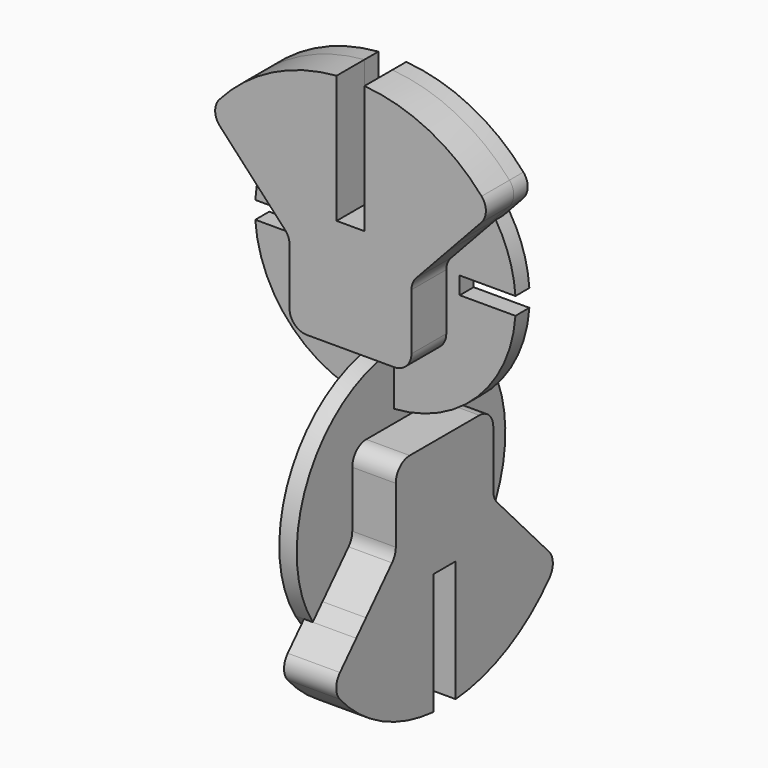
from build123d import *

# Parameters (mm, degrees)
F1_DEPTH = 3.81
F2_DEPTH = 3.175
F3_DEPTH = 1.27
F5_DEPTH = 1.27
F6_DEPTH = 0.635
F8_DEPTH = 3.81
F9_DEPTH = 0.635


with BuildPart() as f1:
    # F0 (on Front) → F1 (new body)
    with BuildSketch(Plane.XZ):
        with BuildLine():
            ThreePointArc((-1.016, 8.192238), (-4.570978, 6.87395), (-7.161671, 4.105544))
            Line((-7.161671, 4.105544), (-4.784743, 1.548093))
            ThreePointArc((-4.784743, 1.548093), (-4.532983, 1.147974), (-4.445, 0.6835))
            Line((-4.445, 0.6835), (-4.445, -3.42361))
            ThreePointArc((-4.445, -3.42361), (-4.073026, -4.321636), (-3.175, -4.69361))
            Line((-3.175, -4.69361), (3.175, -4.69361))
            ThreePointArc((3.175, -4.69361), (4.073026, -4.321636), (4.445, -3.42361))
            Line((4.445, -3.42361), (4.445, 0.6835))
            ThreePointArc((4.445, 0.6835), (4.532983, 1.147974), (4.784743, 1.548093))
            Line((4.784743, 1.548093), (7.161671, 4.105544))
            ThreePointArc((7.161671, 4.105544), (4.570978, 6.87395), (1.016, 8.192238))
            Line((1.016, 8.192238), (1.016, 3.336906))
            Line((1.016, 3.336906), (-1.016, 3.336906))
            Line((-1.016, 3.336906), (-1.016, 8.192238))
        make_face()
        with BuildLine():
            Line((7.161671, 4.105544), (8.051177, 5.062607))
            ThreePointArc((8.051177, 5.062607), (5.037785, 8.066731), (1.016, 9.456171))
            Line((1.016, 9.456171), (1.016, 8.192238))
            ThreePointArc((1.016, 8.192238), (4.570978, 6.87395), (7.161671, 4.105544))
        make_face()
        with BuildLine():
            ThreePointArc((1.016, 9.456171), (5.037785, 8.066731), (8.051177, 5.062607))
            Line((8.051177, 5.062607), (9.53491, 6.659027))
            ThreePointArc((9.53491, 6.659027), (9.874506, 7.504343), (9.560725, 8.359577))
            ThreePointArc((9.560725, 8.359577), (5.708649, 11.344661), (1.016, 12.659295))
            Line((1.016, 12.659295), (1.016, 9.456171))
        make_face()
        with BuildLine():
            ThreePointArc((-1.016, 9.456171), (-5.037785, 8.066731), (-8.051177, 5.062607))
            Line((-8.051177, 5.062607), (-7.161671, 4.105544))
            ThreePointArc((-7.161671, 4.105544), (-4.570978, 6.87395), (-1.016, 8.192238))
            Line((-1.016, 8.192238), (-1.016, 9.456171))
        make_face()
        with BuildLine():
            Line((-9.53491, 6.659027), (-8.051177, 5.062607))
            ThreePointArc((-8.051177, 5.062607), (-5.037785, 8.066731), (-1.016, 9.456171))
            Line((-1.016, 9.456171), (-1.016, 12.659295))
            ThreePointArc((-1.016, 12.659295), (-5.708649, 11.344661), (-9.560725, 8.359577))
            ThreePointArc((-9.560725, 8.359577), (-9.874506, 7.504343), (-9.53491, 6.659027))
        make_face()
    extrude(amount=F1_DEPTH)


with BuildPart() as f2:
    # F0 (on Front) → F2 (new body)
    with BuildSketch(Plane.XZ):
        with BuildLine():
            Line((-9.53491, 6.659027), (-8.051177, 5.062607))
            ThreePointArc((-8.051177, 5.062607), (-5.037785, 8.066731), (-1.016, 9.456171))
            Line((-1.016, 9.456171), (-1.016, 12.659295))
            ThreePointArc((-1.016, 12.659295), (-5.708649, 11.344661), (-9.560725, 8.359577))
            ThreePointArc((-9.560725, 8.359577), (-9.874506, 7.504343), (-9.53491, 6.659027))
        make_face()
        with BuildLine():
            ThreePointArc((-1.016, 9.456171), (-5.037785, 8.066731), (-8.051177, 5.062607))
            Line((-8.051177, 5.062607), (-7.161671, 4.105544))
            ThreePointArc((-7.161671, 4.105544), (-4.570978, 6.87395), (-1.016, 8.192238))
            Line((-1.016, 8.192238), (-1.016, 9.456171))
        make_face()
        with BuildLine():
            ThreePointArc((1.016, 9.456171), (5.037785, 8.066731), (8.051177, 5.062607))
            Line((8.051177, 5.062607), (9.53491, 6.659027))
            ThreePointArc((9.53491, 6.659027), (9.874506, 7.504343), (9.560725, 8.359577))
            ThreePointArc((9.560725, 8.359577), (5.708649, 11.344661), (1.016, 12.659295))
            Line((1.016, 12.659295), (1.016, 9.456171))
        make_face()
        with BuildLine():
            Line((7.161671, 4.105544), (8.051177, 5.062607))
            ThreePointArc((8.051177, 5.062607), (5.037785, 8.066731), (1.016, 9.456171))
            Line((1.016, 9.456171), (1.016, 8.192238))
            ThreePointArc((1.016, 8.192238), (4.570978, 6.87395), (7.161671, 4.105544))
        make_face()
    extrude(amount=F2_DEPTH)


with BuildPart() as f3:
    # F0 (on Front) → F3 (new body)
    with BuildSketch(Plane.XZ):
        with BuildLine():
            ThreePointArc((1.016, 9.456171), (5.037785, 8.066731), (8.051177, 5.062607))
            Line((8.051177, 5.062607), (9.53491, 6.659027))
            ThreePointArc((9.53491, 6.659027), (9.874506, 7.504343), (9.560725, 8.359577))
            ThreePointArc((9.560725, 8.359577), (5.708649, 11.344661), (1.016, 12.659295))
            Line((1.016, 12.659295), (1.016, 9.456171))
        make_face()
        with BuildLine():
            Line((-9.53491, 6.659027), (-8.051177, 5.062607))
            ThreePointArc((-8.051177, 5.062607), (-5.037785, 8.066731), (-1.016, 9.456171))
            Line((-1.016, 9.456171), (-1.016, 12.659295))
            ThreePointArc((-1.016, 12.659295), (-5.708649, 11.344661), (-9.560725, 8.359577))
            ThreePointArc((-9.560725, 8.359577), (-9.874506, 7.504343), (-9.53491, 6.659027))
        make_face()
    extrude(amount=F3_DEPTH)


with BuildPart() as f5:
    # F0 (on Front) → F5 (new body)
    with BuildSketch(Plane.XZ):
        with BuildLine():
            Line((-9.53491, 6.659027), (-8.051177, 5.062607))
            ThreePointArc((-8.051177, 5.062607), (-5.037785, 8.066731), (-1.016, 9.456171))
            Line((-1.016, 9.456171), (-1.016, 12.659295))
            ThreePointArc((-1.016, 12.659295), (-5.708649, 11.344661), (-9.560725, 8.359577))
            ThreePointArc((-9.560725, 8.359577), (-9.874506, 7.504343), (-9.53491, 6.659027))
        make_face()
        with BuildLine():
            ThreePointArc((-1.016, 9.456171), (-5.037785, 8.066731), (-8.051177, 5.062607))
            Line((-8.051177, 5.062607), (-7.161671, 4.105544))
            ThreePointArc((-7.161671, 4.105544), (-4.570978, 6.87395), (-1.016, 8.192238))
            Line((-1.016, 8.192238), (-1.016, 9.456171))
        make_face()
        with BuildLine():
            Line((7.161671, 4.105544), (8.051177, 5.062607))
            ThreePointArc((8.051177, 5.062607), (5.037785, 8.066731), (1.016, 9.456171))
            Line((1.016, 9.456171), (1.016, 8.192238))
            ThreePointArc((1.016, 8.192238), (4.570978, 6.87395), (7.161671, 4.105544))
        make_face()
        with BuildLine():
            ThreePointArc((1.016, 9.456171), (5.037785, 8.066731), (8.051177, 5.062607))
            Line((8.051177, 5.062607), (9.53491, 6.659027))
            ThreePointArc((9.53491, 6.659027), (9.874506, 7.504343), (9.560725, 8.359577))
            ThreePointArc((9.560725, 8.359577), (5.708649, 11.344661), (1.016, 12.659295))
            Line((1.016, 12.659295), (1.016, 9.456171))
        make_face()
    extrude(amount=F5_DEPTH)


with BuildPart() as f6:
    # F0 (on Front) → F6 (new body, symmetric)
    with BuildSketch(Plane.XZ):
        with BuildLine():
            Line((7.161671, 4.105544), (8.051177, 5.062607))
            ThreePointArc((8.051177, 5.062607), (5.037785, 8.066731), (1.016, 9.456171))
            Line((1.016, 9.456171), (1.016, 8.192238))
            ThreePointArc((1.016, 8.192238), (4.570978, 6.87395), (7.161671, 4.105544))
        make_face()
        with BuildLine():
            ThreePointArc((-1.016, 9.456171), (-5.037785, 8.066731), (-8.051177, 5.062607))
            Line((-8.051177, 5.062607), (-7.161671, 4.105544))
            ThreePointArc((-7.161671, 4.105544), (-4.570978, 6.87395), (-1.016, 8.192238))
            Line((-1.016, 8.192238), (-1.016, 9.456171))
        make_face()
        with BuildLine():
            ThreePointArc((-1.016, 8.192238), (-4.570978, 6.87395), (-7.161671, 4.105544))
            Line((-7.161671, 4.105544), (-4.784743, 1.548093))
            ThreePointArc((-4.784743, 1.548093), (-4.532983, 1.147974), (-4.445, 0.6835))
            Line((-4.445, 0.6835), (-4.445, -3.42361))
            ThreePointArc((-4.445, -3.42361), (-4.073026, -4.321636), (-3.175, -4.69361))
            Line((-3.175, -4.69361), (3.175, -4.69361))
            ThreePointArc((3.175, -4.69361), (4.073026, -4.321636), (4.445, -3.42361))
            Line((4.445, -3.42361), (4.445, 0.6835))
            ThreePointArc((4.445, 0.6835), (4.532983, 1.147974), (4.784743, 1.548093))
            Line((4.784743, 1.548093), (7.161671, 4.105544))
            ThreePointArc((7.161671, 4.105544), (4.570978, 6.87395), (1.016, 8.192238))
            Line((1.016, 8.192238), (1.016, 3.336906))
            Line((1.016, 3.336906), (-1.016, 3.336906))
            Line((-1.016, 3.336906), (-1.016, 8.192238))
        make_face()
        with BuildLine():
            ThreePointArc((-8.051177, 5.062607), (-9.045366, 2.93816), (-9.489373, 0.635))
            Line((-9.489373, 0.635), (-5.425373, 0.635))
            Line((-5.425373, 0.635), (-5.425373, -0.635))
            Line((-5.425373, -0.635), (-9.489373, -0.635))
            ThreePointArc((-9.489373, -0.635), (-6.725007, -6.725007), (-0.635, -9.489373))
            Line((-0.635, -9.489373), (-0.635, -8.230541))
            Line((-0.635, -8.230541), (-0.635, -5.622906))
            Line((-0.635, -5.622906), (0.635, -5.622906))
            Line((0.635, -5.622906), (0.635, -8.230541))
            Line((0.635, -8.230541), (0.635, -9.489373))
            ThreePointArc((0.635, -9.489373), (6.725007, -6.725007), (9.489373, -0.635))
            Line((9.489373, -0.635), (5.425373, -0.635))
            Line((5.425373, -0.635), (5.425373, 0.635))
            Line((5.425373, 0.635), (9.489373, 0.635))
            ThreePointArc((9.489373, 0.635), (9.045366, 2.93816), (8.051177, 5.062607))
            Line((8.051177, 5.062607), (7.161671, 4.105544))
            Line((7.161671, 4.105544), (4.784743, 1.548093))
            ThreePointArc((4.784743, 1.548093), (4.532983, 1.147974), (4.445, 0.6835))
            Line((4.445, 0.6835), (4.445, -3.42361))
            ThreePointArc((4.445, -3.42361), (4.073026, -4.321636), (3.175, -4.69361))
            Line((3.175, -4.69361), (-3.175, -4.69361))
            ThreePointArc((-3.175, -4.69361), (-4.073026, -4.321636), (-4.445, -3.42361))
            Line((-4.445, -3.42361), (-4.445, 0.6835))
            ThreePointArc((-4.445, 0.6835), (-4.532983, 1.147974), (-4.784743, 1.548093))
            Line((-4.784743, 1.548093), (-7.161671, 4.105544))
            Line((-7.161671, 4.105544), (-8.051177, 5.062607))
        make_face()
    extrude(amount=F6_DEPTH, both=True)


with BuildPart() as f8:
    # F7 (on Right) → F8 (new body)
    with BuildSketch(Plane.YZ):
        with BuildLine():
            Line((1.016, -18.917798), (1.016, -23.304518))
            ThreePointArc((1.016, -23.304518), (4.570978, -21.986229), (7.161671, -19.217824))
            Line((7.161671, -19.217824), (4.784743, -16.660372))
            ThreePointArc((4.784743, -16.660372), (4.532983, -16.260254), (4.445, -15.795779))
            Line((4.445, -15.795779), (4.445, -11.68867))
            ThreePointArc((4.445, -11.68867), (4.073026, -10.790644), (3.175, -10.41867))
            Line((3.175, -10.41867), (-3.175, -10.41867))
            ThreePointArc((-3.175, -10.41867), (-4.073026, -10.790644), (-4.445, -11.68867))
            Line((-4.445, -11.68867), (-4.445, -15.795779))
            ThreePointArc((-4.445, -15.795779), (-4.532983, -16.260254), (-4.784743, -16.660372))
            Line((-4.784743, -16.660372), (-7.161671, -19.217824))
            ThreePointArc((-7.161671, -19.217824), (-4.570978, -21.986229), (-1.016, -23.304518))
            Line((-1.016, -23.304518), (-1.016, -18.917798))
            Line((-1.016, -18.917798), (1.016, -18.917798))
        make_face()
        with BuildLine():
            Line((1.016, -23.304518), (1.016, -24.568451))
            ThreePointArc((1.016, -24.568451), (5.037785, -23.179011), (8.051177, -20.174886))
            Line((8.051177, -20.174886), (7.161671, -19.217824))
            ThreePointArc((7.161671, -19.217824), (4.570978, -21.986229), (1.016, -23.304518))
        make_face()
        with BuildLine():
            ThreePointArc((8.051177, -20.174886), (5.037785, -23.179011), (1.016, -24.568451))
            Line((1.016, -24.568451), (1.016, -27.771574))
            ThreePointArc((1.016, -27.771574), (5.708649, -26.456941), (9.560725, -23.471857))
            ThreePointArc((9.560725, -23.471857), (9.874506, -22.616622), (9.53491, -21.771306))
            Line((9.53491, -21.771306), (8.051177, -20.174886))
        make_face()
        with BuildLine():
            Line((-7.161671, -19.217824), (-8.051177, -20.174886))
            ThreePointArc((-8.051177, -20.174886), (-5.037785, -23.179011), (-1.016, -24.568451))
            Line((-1.016, -24.568451), (-1.016, -23.304518))
            ThreePointArc((-1.016, -23.304518), (-4.570978, -21.986229), (-7.161671, -19.217824))
        make_face()
        with BuildLine():
            ThreePointArc((-1.016, -24.568451), (-5.037785, -23.179011), (-8.051177, -20.174886))
            Line((-8.051177, -20.174886), (-9.53491, -21.771306))
            ThreePointArc((-9.53491, -21.771306), (-9.874506, -22.616622), (-9.560725, -23.471857))
            ThreePointArc((-9.560725, -23.471857), (-5.708649, -26.456941), (-1.016, -27.771574))
            Line((-1.016, -27.771574), (-1.016, -24.568451))
        make_face()
    extrude(amount=F8_DEPTH)


with BuildPart() as f9:
    # F7 (on Right) → F9 (new body, symmetric)
    with BuildSketch(Plane.YZ):
        with BuildLine():
            Line((7.161671, -19.217824), (8.051177, -20.174886))
            ThreePointArc((8.051177, -20.174886), (0, -5.601684), (-8.051177, -20.174886))
            Line((-8.051177, -20.174886), (-7.161671, -19.217824))
            Line((-7.161671, -19.217824), (-4.784743, -16.660372))
            ThreePointArc((-4.784743, -16.660372), (-4.532983, -16.260254), (-4.445, -15.795779))
            Line((-4.445, -15.795779), (-4.445, -11.68867))
            ThreePointArc((-4.445, -11.68867), (-4.073026, -10.790644), (-3.175, -10.41867))
            Line((-3.175, -10.41867), (3.175, -10.41867))
            ThreePointArc((3.175, -10.41867), (4.073026, -10.790644), (4.445, -11.68867))
            Line((4.445, -11.68867), (4.445, -15.795779))
            ThreePointArc((4.445, -15.795779), (4.532983, -16.260254), (4.784743, -16.660372))
            Line((4.784743, -16.660372), (7.161671, -19.217824))
        make_face()
        with BuildLine():
            Line((-7.161671, -19.217824), (-8.051177, -20.174886))
            ThreePointArc((-8.051177, -20.174886), (-5.037785, -23.179011), (-1.016, -24.568451))
            Line((-1.016, -24.568451), (-1.016, -23.304518))
            ThreePointArc((-1.016, -23.304518), (-4.570978, -21.986229), (-7.161671, -19.217824))
        make_face()
        with BuildLine():
            Line((1.016, -18.917798), (1.016, -23.304518))
            ThreePointArc((1.016, -23.304518), (4.570978, -21.986229), (7.161671, -19.217824))
            Line((7.161671, -19.217824), (4.784743, -16.660372))
            ThreePointArc((4.784743, -16.660372), (4.532983, -16.260254), (4.445, -15.795779))
            Line((4.445, -15.795779), (4.445, -11.68867))
            ThreePointArc((4.445, -11.68867), (4.073026, -10.790644), (3.175, -10.41867))
            Line((3.175, -10.41867), (-3.175, -10.41867))
            ThreePointArc((-3.175, -10.41867), (-4.073026, -10.790644), (-4.445, -11.68867))
            Line((-4.445, -11.68867), (-4.445, -15.795779))
            ThreePointArc((-4.445, -15.795779), (-4.532983, -16.260254), (-4.784743, -16.660372))
            Line((-4.784743, -16.660372), (-7.161671, -19.217824))
            ThreePointArc((-7.161671, -19.217824), (-4.570978, -21.986229), (-1.016, -23.304518))
            Line((-1.016, -23.304518), (-1.016, -18.917798))
            Line((-1.016, -18.917798), (1.016, -18.917798))
        make_face()
        with BuildLine():
            Line((1.016, -23.304518), (1.016, -24.568451))
            ThreePointArc((1.016, -24.568451), (5.037785, -23.179011), (8.051177, -20.174886))
            Line((8.051177, -20.174886), (7.161671, -19.217824))
            ThreePointArc((7.161671, -19.217824), (4.570978, -21.986229), (1.016, -23.304518))
        make_face()
    extrude(amount=F9_DEPTH, both=True)


solid = Compound([f1.part, f3.part, f5.part, f6.part, f8.part, f9.part])
